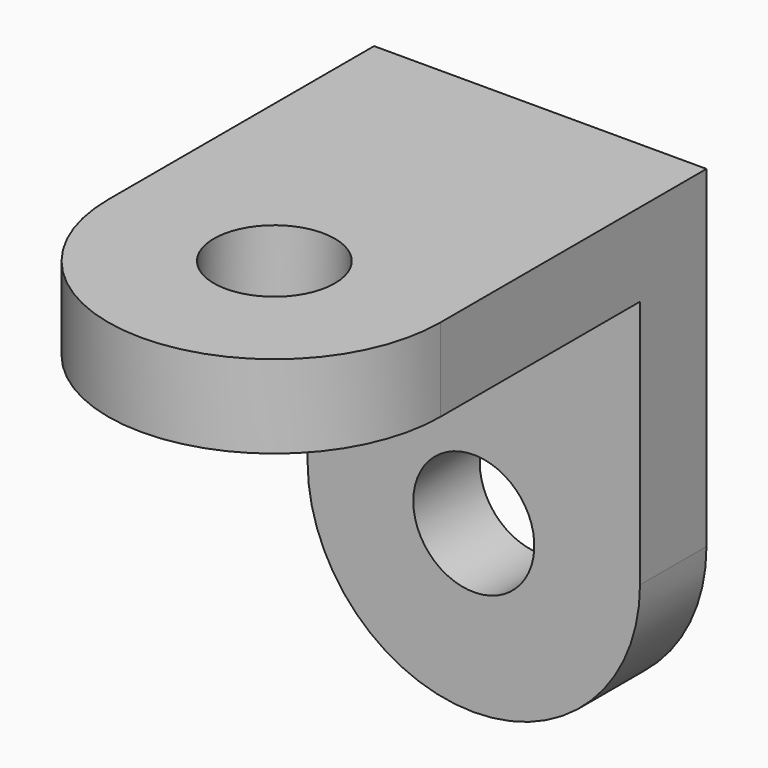
from build123d import *

# Parameters (mm, degrees)
F0_R     = 2.3114
F1_DEPTH = 3.175
F2_R     = 2.3114
F3_DEPTH = 3.175


with BuildPart() as f1:
    # F0 (on Top) → F1 (new body)
    with BuildSketch(Plane.XY):
        with BuildLine():
            Line((-6.35, 12.7), (-6.35, 0))
            ThreePointArc((-6.35, 0), (0, -6.35), (6.35, 0))
            Line((6.35, 0), (6.35, 12.7))
            Line((6.35, 12.7), (-6.35, 12.7))
        make_face()
        Circle(F0_R, mode=Mode.SUBTRACT)
    extrude(amount=F1_DEPTH)

    # F2 (on face) → F3 (join)
    with BuildSketch(Plane(origin=(0, 12.7, 0), x_dir=(-1, 0, 0), z_dir=(0, 1, 0))):
        with BuildLine():
            Line((-6.35, 3.175), (-6.35, -9.525))
            ThreePointArc((-6.35, -9.525), (0, -15.875), (6.35, -9.525))
            Line((6.35, -9.525), (6.35, 3.175))
            Line((6.35, 3.175), (-6.35, 3.175))
        make_face()
        with Locations((0, -9.525)):
            Circle(F2_R, mode=Mode.SUBTRACT)
    extrude(amount=-F3_DEPTH)


solid = f1.part
